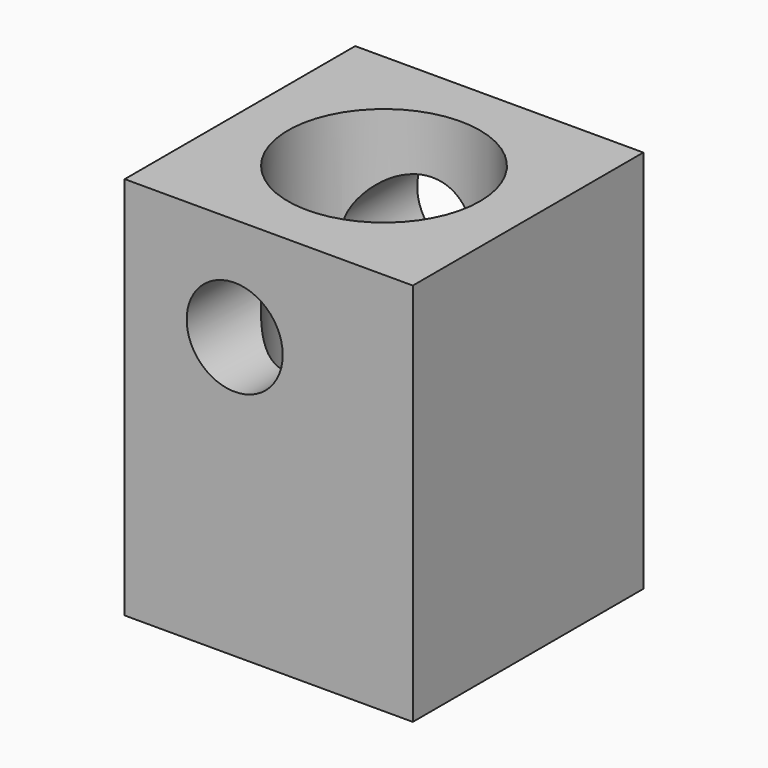
from build123d import *

# Parameters (mm, degrees)
F0_W     = 38.1
F0_H     = 38.1
F0_R     = 12.7
F1_DEPTH = 50.8
F2_R     = 6.35
F3_DEPTH = 38.1


with BuildPart() as f1:
    # F0 (on Top) → F1 (new body)
    with BuildSketch(Plane.XY):
        Rectangle(F0_W, F0_H)
        Circle(F0_R, mode=Mode.SUBTRACT)
    extrude(amount=F1_DEPTH)

    # F2 (on face) → F3 (cut, through all)
    with BuildSketch(Plane.XZ.offset(19.05)):
        with Locations((-4.504403, 37.120797)):
            Circle(F2_R)
    extrude(amount=-F3_DEPTH, mode=Mode.SUBTRACT)


solid = f1.part
